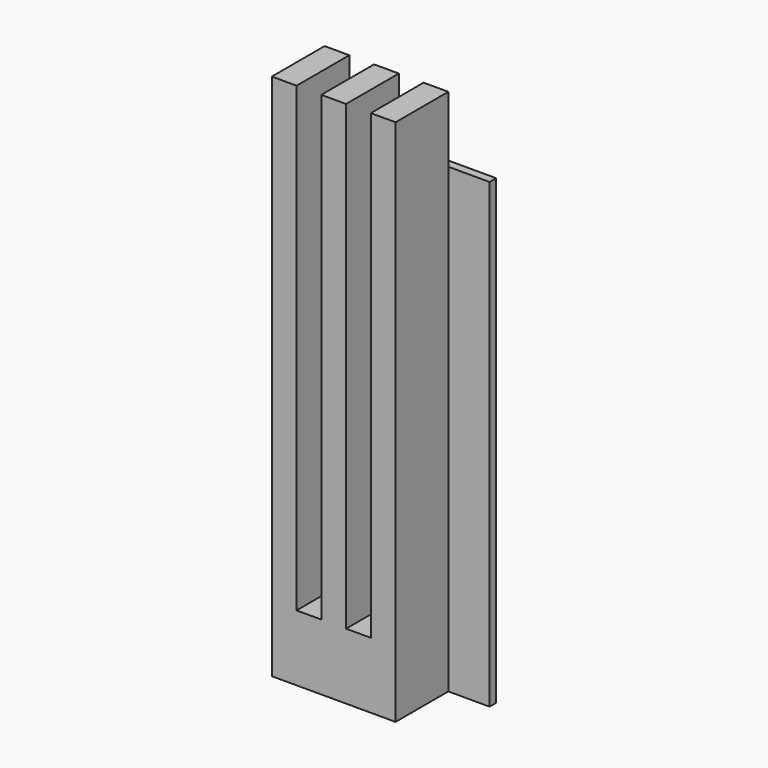
from build123d import *

# Parameters (mm, degrees)
F0_W     = 19.05
F0_H     = 50.8
F1_DEPTH = 50.8
F2_DEPTH = 406.4
F4_DEPTH = 355.6


with BuildPart() as f1:
    # F0 (on Top) → F1 (new body)
    with BuildSketch(Plane.XY):
        with Locations((-38.1, 0)):
            Rectangle(F0_W, F0_H)
        Rectangle(F0_W, F0_H)
        with Locations((38.1, 0)):
            Rectangle(F0_W, F0_H)
        with Locations((-19.05, 0)):
            Rectangle(F0_W, F0_H)
        with Locations((19.05, 0)):
            Rectangle(F0_W, F0_H)
    extrude(amount=F1_DEPTH)

    # F0 (on Top) → F2 (join)
    with BuildSketch(Plane.XY):
        Rectangle(F0_W, F0_H)
        with Locations((-38.1, 0)):
            Rectangle(F0_W, F0_H)
        with Locations((38.1, 0)):
            Rectangle(F0_W, F0_H)
    extrude(amount=F2_DEPTH)


with BuildPart() as f4:
    # F3 (on Top) → F4 (new body)
    with BuildSketch(Plane.XY):
        Polygon((-47.625, 31.75), (-47.625, 25.4), (-28.575, 25.4), (79.375, 25.4), (79.375, 31.75), align=None)
    extrude(amount=F4_DEPTH)


solid = Compound([f1.part, f4.part])
